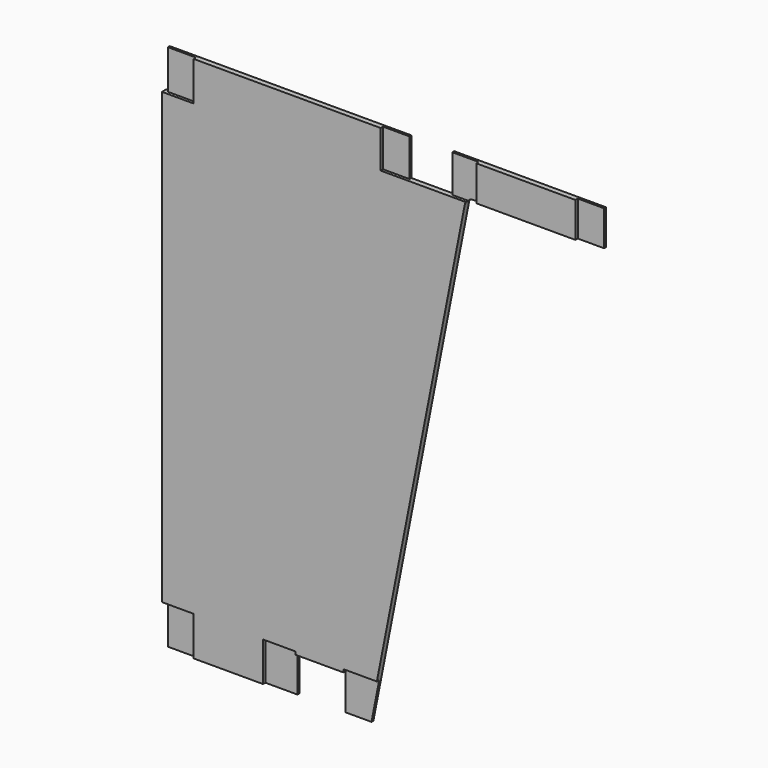
from build123d import *

# Parameters (mm, degrees)
F0_W     = 48
F0_H     = 67
F0_W_2   = 45
F0_H_2   = 60
F0_H_3   = 64
F0_W_3   = 169
F1_DEPTH = 9
F2_DEPTH = 5


with BuildPart() as f1:
    # F0 (on Front) → F1 (new body)
    with BuildSketch(Plane.XZ):
        with Locations((30, 866.5)):
            Rectangle(F0_W, F0_H)
        with Locations((727.5, 870)):
            Rectangle(F0_W_2, F0_H_2)
        with Locations((395.5, 868)):
            Rectangle(F0_W_2, F0_H_3)
        with Locations((620.5, 870)):
            Rectangle(F0_W_3, F0_H_2)
        with BuildLine():
            Line((6, 833), (0, 833))
            Line((0, 833), (0, 67))
            Line((0, 67), (6, 67))
            Line((6, 67), (54, 67))
            Line((54, 67), (54, 0))
            Line((54, 0), (172.2699177442, 0))
            Line((172.2699177442, 0), (172.2699177442, 67))
            Line((172.2699177442, 67), (227.2699177442, 67))
            Line((227.2699177442, 67), (227.2699177442, 62))
            Line((227.2699177442, 62), (309.2699177442, 62))
            Line((309.2699177442, 62), (309.2699177442, 67))
            Line((309.2699177442, 67), (366.4091028765, 67))
            Line((366.4091028765, 67), (516.4163196705, 831.9244168488))
            ThreePointArc((516.4163196705, 831.9244168488), (517.0927147816, 834.0645927345), (518.2294037827, 836))
            Line((518.2294037827, 836), (491, 836))
            Line((491, 836), (418, 836))
            Line((418, 836), (373, 836))
            Line((373, 836), (373, 900))
            Line((373, 900), (54, 900))
            Line((54, 900), (54, 833))
            Line((54, 833), (6, 833))
        make_face()
        Polygon((309.2699177442, 62), (309.2699177442, 0), (353.2699177442, 0), (366.4091028765, 67), (309.2699177442, 67), align=None)
        with BuildLine():
            Line((536, 900), (491, 900))
            Line((491, 900), (491, 836))
            Line((491, 836), (518.2294037827, 836))
            ThreePointArc((518.2294037827, 836), (521.7572678277, 838.94427191), (526.2294037827, 840))
            Line((526.2294037827, 840), (536, 840))
            Line((536, 840), (536, 900))
        make_face()
        with BuildLine():
            Line((6, 833), (0, 833))
            Line((0, 833), (0, 67))
            Line((0, 67), (6, 67))
            Line((6, 67), (54, 67))
            Line((54, 67), (54, 0))
            Line((54, 0), (172.2699177442, 0))
            Line((172.2699177442, 0), (172.2699177442, 67))
            Line((172.2699177442, 67), (227.2699177442, 67))
            Line((227.2699177442, 67), (227.2699177442, 62))
            Line((227.2699177442, 62), (309.2699177442, 62))
            Line((309.2699177442, 62), (309.2699177442, 67))
            Line((309.2699177442, 67), (366.4091028765, 67))
            Line((366.4091028765, 67), (516.4163196705, 831.9244168488))
            ThreePointArc((516.4163196705, 831.9244168488), (517.0927147816, 834.0645927345), (518.2294037827, 836))
            Line((518.2294037827, 836), (491, 836))
            Line((491, 836), (418, 836))
            Line((418, 836), (373, 836))
            Line((373, 836), (373, 900))
            Line((373, 900), (54, 900))
            Line((54, 900), (54, 833))
            Line((54, 833), (6, 833))
        make_face()
        Polygon((172.2699177442, 67), (172.2699177442, 0), (227.2699177442, 0), (227.2699177442, 62), (227.2699177442, 67), align=None)
        with Locations((30, 33.5)):
            Rectangle(F0_W, F0_H)
    extrude(amount=-F1_DEPTH)

    # F0 (on Front) → F2 (cut)
    with BuildSketch(Plane.XZ):
        with Locations((30, 866.5)):
            Rectangle(F0_W, F0_H)
        with Locations((727.5, 870)):
            Rectangle(F0_W_2, F0_H_2)
        with Locations((395.5, 868)):
            Rectangle(F0_W_2, F0_H_3)
        with BuildLine():
            Line((536, 900), (491, 900))
            Line((491, 900), (491, 836))
            Line((491, 836), (518.2294037827, 836))
            ThreePointArc((518.2294037827, 836), (521.7572678277, 838.94427191), (526.2294037827, 840))
            Line((526.2294037827, 840), (536, 840))
            Line((536, 840), (536, 900))
        make_face()
        Polygon((309.2699177442, 62), (309.2699177442, 0), (353.2699177442, 0), (366.4091028765, 67), (309.2699177442, 67), align=None)
        Polygon((172.2699177442, 67), (172.2699177442, 0), (227.2699177442, 0), (227.2699177442, 62), (227.2699177442, 67), align=None)
        with Locations((30, 33.5)):
            Rectangle(F0_W, F0_H)
    extrude(amount=-F2_DEPTH, mode=Mode.SUBTRACT)


solid = f1.part
